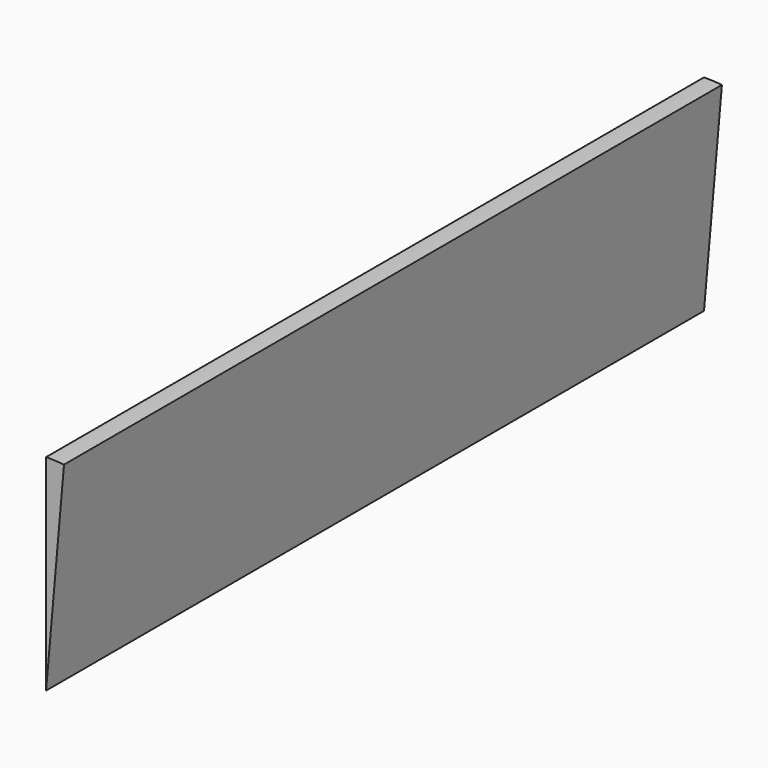
from build123d import *

# Parameters (mm, degrees)
F1_DEPTH = 400


with BuildPart() as f1:
    # F0 (on Front) → F1 (new body)
    with BuildSketch(Plane.XZ):
        with BuildLine():
            Line((0, 0), (8.715574, 99.61947))
            ThreePointArc((8.715574, 99.61947), (4.361939, 99.904822), (0, 100))
            Line((0, 100), (0, 0))
        make_face()
    extrude(amount=-F1_DEPTH)


solid = f1.part
